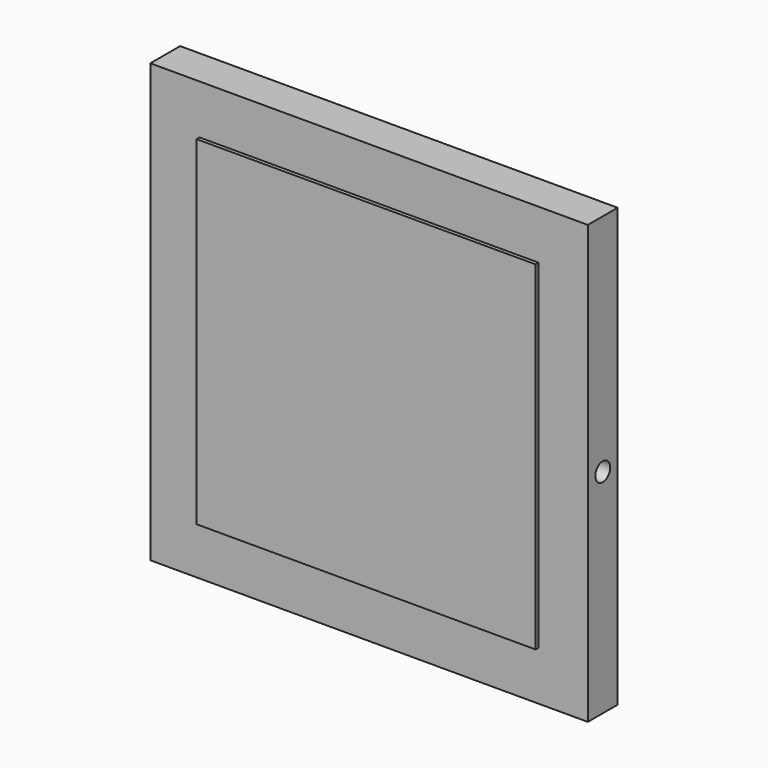
from build123d import *

# Parameters (mm, degrees)
F0_W     = 25.4
F0_H     = 298.45
F0_R     = 6.35
F1_DEPTH = 149.225
F2_W     = 231.253802
F2_H     = 231.253802
F3_DEPTH = 2.54


with BuildPart() as f1:
    # F0 (on Right) → F1 (new body, symmetric)
    with BuildSketch(Plane.YZ):
        Rectangle(F0_W, F0_H)
        with Locations((0, -4.107149)):
            Circle(F0_R, mode=Mode.SUBTRACT)
    extrude(amount=F1_DEPTH, both=True)

    # F2 (on face) → F3 (join, symmetric)
    with BuildSketch(Plane.XZ.offset(12.7)):
        Rectangle(F2_W, F2_H)
    extrude(amount=F3_DEPTH, both=True)


solid = f1.part
